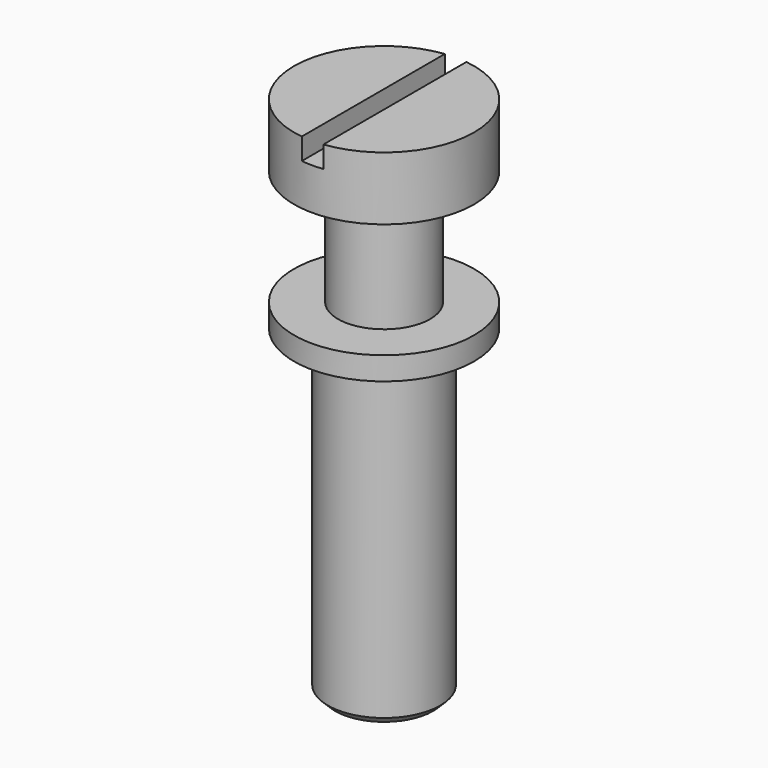
from build123d import *

# Parameters (mm, degrees)
F2_W     = 1.5
F2_H     = 13
F3_DEPTH = 1.5


with BuildPart() as f1:
    # F0 (on Front) → F1 (revolve)
    with BuildSketch(Plane.XZ):
        Polygon((0, 18.15), (0, -18.15), (3.4, -18.15), (3.9, -17.65), (3.9, 4.15), (6.25, 4.15), (6.25, 5.75), (3.2, 5.75), (3.2, 13.75), (6.25, 13.75), (6.25, 18.15), align=None)
    revolve(axis=Axis((0, 0, 0), (0, 0, 1)))

    # F2 (on face) → F3 (cut)
    with BuildSketch(Plane.XY.offset(18.15)):
        Rectangle(F2_W, F2_H)
    extrude(amount=-F3_DEPTH, mode=Mode.SUBTRACT)


solid = f1.part
